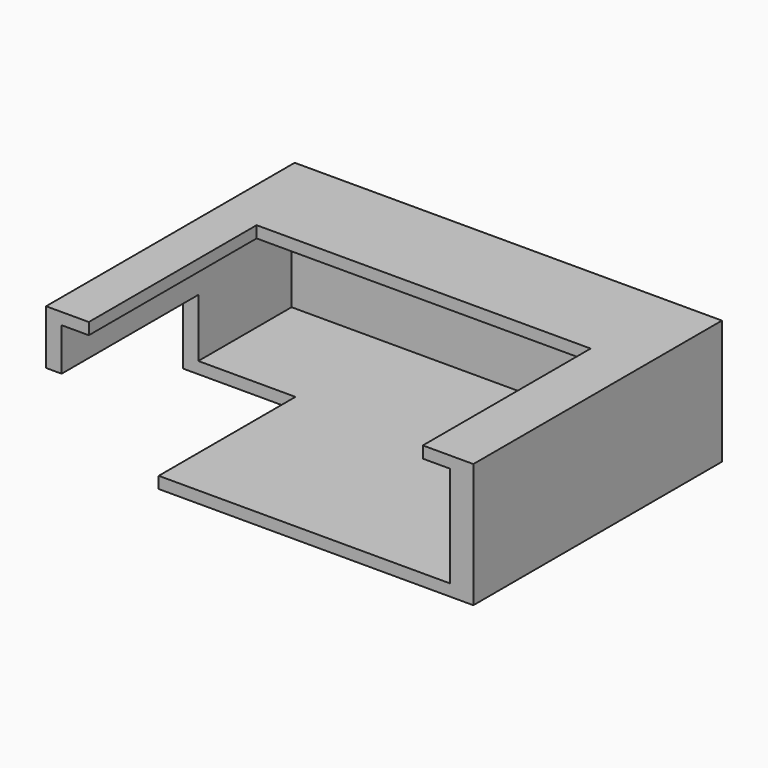
from build123d import *

# Parameters (mm, degrees)
BOX127_W     = 17
BOX127_H     = 24
BOX127_DEPTH = 11
BOX126_W     = 43
BOX126_H     = 27
BOX126_DEPTH = 11
BOX125_W     = 50
BOX125_H     = 37
BOX125_DEPTH = 13
BOX124_W     = 55
BOX124_H     = 40
BOX124_DEPTH = 16


with BuildPart() as cube050:
    # Box127 → Box127 (new body)
    with BuildSketch(Plane(origin=(337.5, 106, 176), x_dir=(1, 0, 0), z_dir=(0, 0, -1))):
        with Locations((8.5, 12)):
            Rectangle(BOX127_W, BOX127_H)
    extrude(amount=BOX127_DEPTH)


with BuildPart() as cube049:
    # Box126 → Box126 (new body)
    with BuildSketch(Plane(origin=(345.5, 111, 185), x_dir=(1, 0, 0), z_dir=(0, 0, -1))):
        with Locations((21.5, 13.5)):
            Rectangle(BOX126_W, BOX126_H)
    extrude(amount=BOX126_DEPTH)


with BuildPart() as cube048:
    # Box125 → Box125 (new body)
    with BuildSketch(Plane(origin=(342, 121, 181.5), x_dir=(1, 0, 0), z_dir=(0, 0, -1))):
        with Locations((25, 18.5)):
            Rectangle(BOX125_W, BOX125_H)
    extrude(amount=BOX125_DEPTH)


with BuildPart() as cut022:
    # Box124 → Box124 (new body)
    with BuildSketch(Plane(origin=(340, 124, 183), x_dir=(1, 0, 0), z_dir=(0, 0, -1))):
        with Locations((27.5, 20)):
            Rectangle(BOX124_W, BOX124_H)
    extrude(amount=BOX124_DEPTH)

    # Cut020: cut Cube048
    add(cube048.part, mode=Mode.SUBTRACT)

    # Cut021: cut Cube049
    add(cube049.part, mode=Mode.SUBTRACT)

    # Cut022: cut Cube050
    add(cube050.part, mode=Mode.SUBTRACT)


solid = cut022.part
